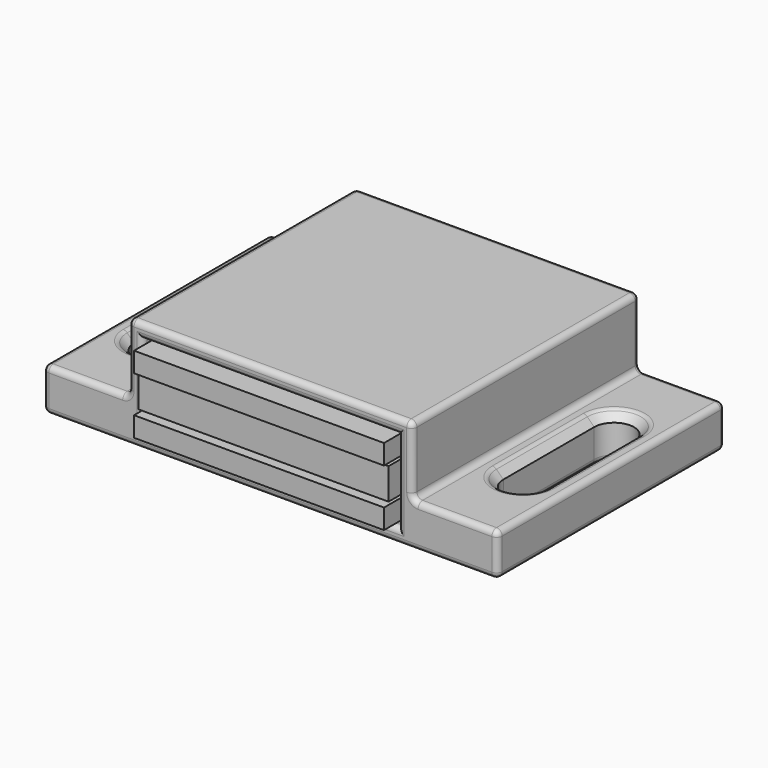
from build123d import *

# Parameters (mm, degrees)
F0_W          = 22.86
F0_H          = 7.366
F1_DEPTH      = 25.4
F3_DEPTH      = 9.907
F4_W          = 22.352
F4_H          = 1.778
F5_DEPTH      = 1.27
F5_DEPTH_BACK = 25.4
F6_DEPTH      = 1.27
F6_DEPTH_BACK = 25.4
F4_H_2        = 2.794
F7_DEPTH      = 0.762
F7_DEPTH_BACK = 25.4
F8_SIZE       = 0.762
F9_R          = 0.508


with BuildPart() as f1:
    # F0 (on Front) → F1 (new body)
    with BuildSketch(Plane.XZ):
        Polygon((-40.64, -9.906), (0, -9.906), (0, -6.096), (-7.62, -6.096), (-7.62, 0), (-33.02, 0), (-33.02, -6.096), (-40.64, -6.096), align=None)
        with Locations((-20.32, -4.953)):
            Rectangle(F0_W, F0_H, mode=Mode.SUBTRACT)
    extrude(amount=-F1_DEPTH)

    # F2 (on face) → F3 (cut, through all)
    with BuildSketch(Plane.XY):
        with BuildLine():
            ThreePointArc((-35.052, 17.78), (-36.83, 19.558), (-38.608, 17.78))
            Line((-38.608, 17.78), (-38.608, 7.62))
            ThreePointArc((-38.608, 7.62), (-36.83, 5.842), (-35.052, 7.62))
            Line((-35.052, 7.62), (-35.052, 17.78))
        make_face()
        with BuildLine():
            Line((-2.032, 7.62), (-2.032, 17.78))
            ThreePointArc((-2.032, 17.78), (-3.81, 19.558), (-5.588, 17.78))
            Line((-5.588, 17.78), (-5.588, 7.62))
            ThreePointArc((-5.588, 7.62), (-3.81, 5.842), (-2.032, 7.62))
        make_face()
    extrude(amount=-F3_DEPTH, mode=Mode.SUBTRACT)

    # F8
    f8_edges = [f1.edges().sort_by_distance(p)[0] for p in [
        (-35.052, 12.7, -6.096),
        (-2.032, 12.7, -6.096),
    ]]
    chamfer(f8_edges, length=F8_SIZE)

    # F9
    f9_edges = [f1.edges().sort_by_distance(p)[0] for p in [
        (-33.02, 12.7, -6.096),
        (-7.62, 12.7, -6.096),
        (-7.62, 12.7, 0),
        (-33.02, 12.7, 0),
        (-20.32, 0, 0),
        (-20.32, 25.4, 0),
        (-33.02, 0, -3.048),
        (-33.02, 25.4, -3.048),
        (-34.29, 12.7, -6.096),
        (-36.83, 5.08, -6.096),
        (-36.83, 20.32, -6.096),
        (-39.37, 12.7, -6.096),
        (-36.83, 0, -6.096),
        (-36.83, 25.4, -6.096),
        (-40.64, 12.7, -6.096),
        (-40.64, 12.7, -9.906),
        (-40.64, 0, -8.001),
        (-40.64, 25.4, -8.001),
        (-1.27, 12.7, -6.096),
        (-3.81, 5.08, -6.096),
        (-3.81, 20.32, -6.096),
        (-6.35, 12.7, -6.096),
        (0, 12.7, -6.096),
        (-3.81, 0, -6.096),
        (-3.81, 25.4, -6.096),
        (-7.62, 0, -3.048),
        (-7.62, 25.4, -3.048),
        (-20.32, 0, -9.906),
        (0, 0, -8.001),
        (-8.89, 0, -4.953),
        (-20.32, 0, -8.636),
        (-31.75, 0, -4.953),
        (-20.32, 0, -1.27),
        (0, 12.7, -9.906),
        (0, 25.4, -8.001),
        (-20.32, 25.4, -9.906),
        (-35.052, 12.7, -9.906),
        (-36.83, 5.842, -9.906),
        (-38.608, 12.7, -9.906),
        (-36.83, 19.558, -9.906),
        (-2.032, 12.7, -9.906),
        (-3.81, 5.842, -9.906),
        (-5.588, 12.7, -9.906),
        (-3.81, 19.558, -9.906),
        (-8.89, 25.4, -4.953),
        (-20.32, 25.4, -8.636),
        (-31.75, 25.4, -4.953),
        (-20.32, 25.4, -1.27),
    ]]
    fillet(f9_edges, radius=F9_R)


with BuildPart() as f5:
    # F4 (on face) → F5 (new body, two sides)
    with BuildSketch(Plane.XZ) as f5_sk:
        with Locations((-20.32, -2.413)):
            Rectangle(F4_W, F4_H)
    extrude(amount=F5_DEPTH)
    extrude(f5_sk.sketch, amount=-F5_DEPTH_BACK)


with BuildPart() as f6:
    # F4 (on face) → F6 (new body, two sides)
    with BuildSketch(Plane.XZ) as f6_sk:
        with Locations((-20.32, -7.493)):
            Rectangle(F4_W, F4_H)
    extrude(amount=F6_DEPTH)
    extrude(f6_sk.sketch, amount=-F6_DEPTH_BACK)


with BuildPart() as f7:
    # F4 (on face) → F7 (new body, two sides)
    with BuildSketch(Plane.XZ) as f7_sk:
        with Locations((-20.32, -4.953)):
            Rectangle(F4_W, F4_H_2)
    extrude(amount=F7_DEPTH)
    extrude(f7_sk.sketch, amount=-F7_DEPTH_BACK)


solid = Compound([f1.part, f5.part, f6.part, f7.part])
